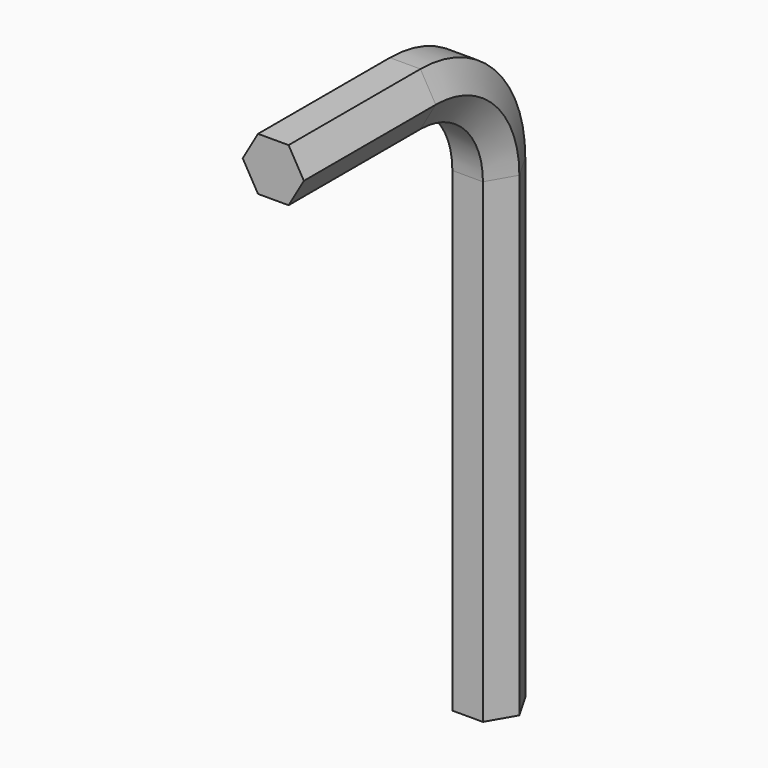
from build123d import *


with BuildPart() as f2:
    # F2: sweep along a path in F1
    with BuildLine(Plane.YZ) as f2_path:
        Line((0, 0), (157.576125, 0))
        ThreePointArc((157.576125, 0), (228.286803, -29.289322), (257.576125, -100))
        Line((257.576125, -100), (257.576125, -554.642754))
    # F0 (on Front) → F2 (sweep)
    with BuildSketch(Plane.XZ):
        Polygon((-14.611863, -25.30849), (14.611863, -25.30849), (29.223727, 0), (14.611863, 25.30849), (-14.611863, 25.30849), (-29.223727, 0), align=None)
    sweep(path=f2_path.line)


solid = f2.part
